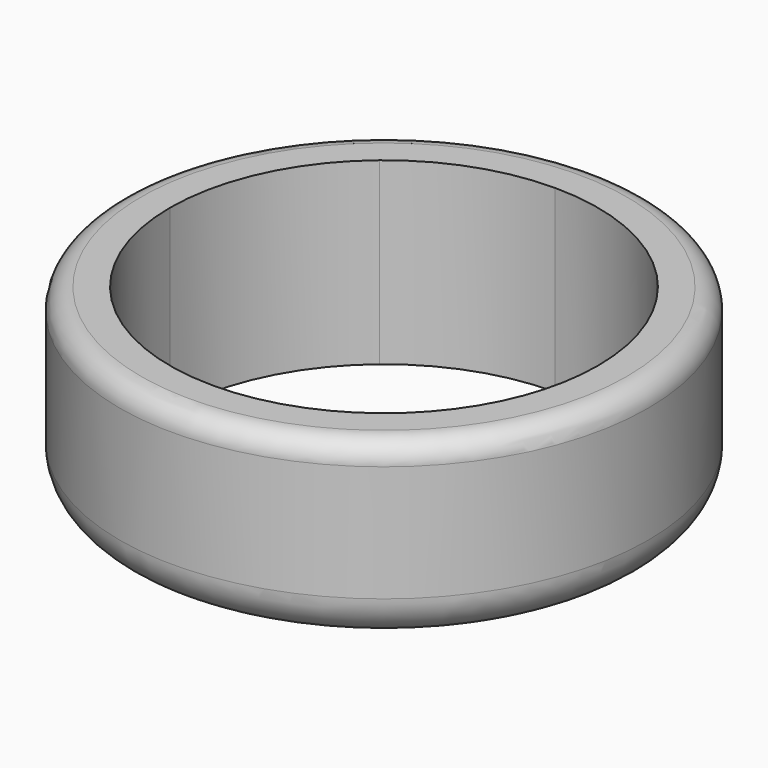
from build123d import *

# Parameters (mm, degrees)
F0_R     = 31.742786
F1_DEPTH = 21.59
F2_R     = 5.08
F3_R     = 2.54


with BuildPart() as f1:
    # F0 (on Top) → F1 (new body)
    with BuildSketch(Plane.XY):
        Circle(F0_R)
        with BuildLine():
            ThreePointArc((18.484382, 17.87337), (23.837034, 9.63979), (25.712443, 0))
            ThreePointArc((25.712443, 0), (23.118518, -11.254504), (15.860104, -20.238252))
            ThreePointArc((15.860104, -20.238252), (8.389125, -24.305397), (0, -25.712443))
            ThreePointArc((0, -25.712443), (-9.855162, -23.748801), (-18.205059, -18.157797))
            ThreePointArc((-18.205059, -18.157797), (-23.76159, -9.824286), (-25.712443, 0))
            ThreePointArc((-25.712443, 0), (-23.263593, 10.951483), (-16.383499, 19.81693))
            ThreePointArc((-16.383499, 19.81693), (-8.705977, 24.193712), (0, 25.712443))
            ThreePointArc((0, 25.712443), (10.038967, 23.671689), (18.484382, 17.87337))
        make_face(mode=Mode.SUBTRACT)
    extrude(amount=F1_DEPTH)

    # F2
    f2_edges = [f1.edges().sort_by_distance(p)[0] for p in [
        (-31.742786, 0, 0),
    ]]
    fillet(f2_edges, radius=F2_R)

    # F3
    f3_edges = [f1.edges().sort_by_distance(p)[0] for p in [
        (-31.742786, 0, 21.59),
    ]]
    fillet(f3_edges, radius=F3_R)


solid = f1.part
